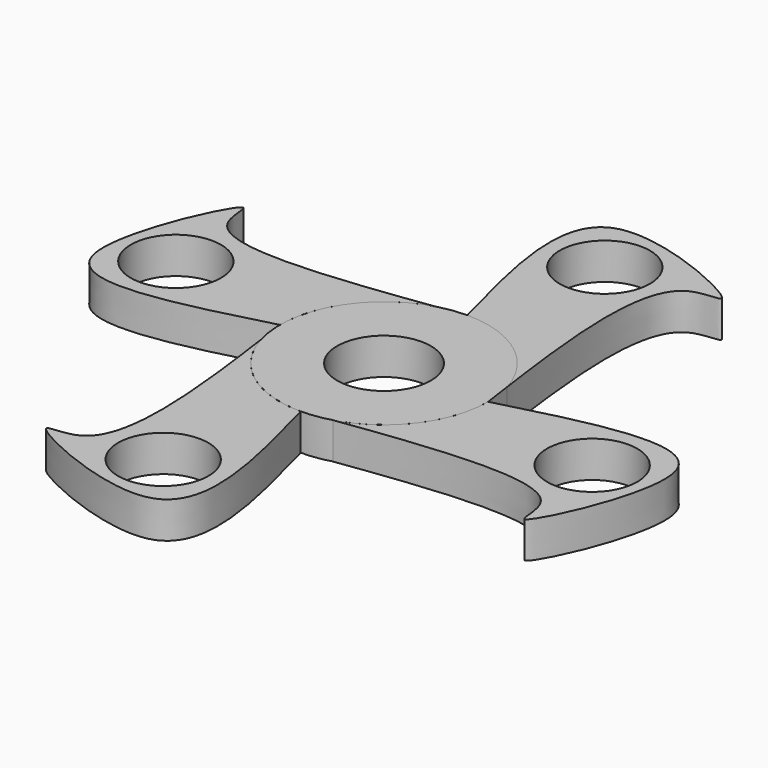
from build123d import *

# Parameters (mm, degrees)
F0_R     = 10.9982
F2_DEPTH = 8.89
F4_COUNT = 4
F0_R_2   = 11.43
F5_DEPTH = 8.89


with BuildPart() as f2:
    # F0 (on Top) → F2 (new body)
    with BuildSketch(Plane.XY):
        with BuildLine():
            add(Edge.make_bspline(
                [(0, 25.4), (-5.677610257, 46.5827207749), (-16.3150170913, 86.2700555059), (43.5220459935, 58.3296879428), (17.4856890236, 63.2313931859), (20.993250753, 31.4466711913), (24.4029460625, 7.0467172125)],
                knots=[0, 0, 0, 0, 0.2925395716, 0.5480937044, 0.6672372349, 0.9708883628, 0.9708883628, 0.9708883628, 0.9708883628], degree=3))
            ThreePointArc((0, 25.4), (15.2671769297, 20.2995888776), (24.4029460625, 7.0467172125))
        make_face()
        with Locations((8.0732954666, 57.2360679507)):
            Circle(F0_R, mode=Mode.SUBTRACT)
    extrude(amount=F2_DEPTH)


with BuildPart() as f4_1:
    # F4: instance of F2
    add(f2.part.rotate(Axis((0, 0, 19.4915588945), (0, 0, 1)), 1 * 360 / F4_COUNT))


with BuildPart() as f4_2:
    # F4: instance of F2
    add(f2.part.rotate(Axis((0, 0, 19.4915588945), (0, 0, 1)), 2 * 360 / F4_COUNT))


with BuildPart() as f4_3:
    # F4: instance of F2
    add(f2.part.rotate(Axis((0, 0, 19.4915588945), (0, 0, 1)), 3 * 360 / F4_COUNT))


with BuildPart() as f5:
    # F0 (on Top) → F5 (new body)
    with BuildSketch(Plane.XY):
        with BuildLine():
            ThreePointArc((24.4029460625, 7.0467172125), (15.2671769297, 20.2995888776), (0, 25.4))
            ThreePointArc((0, 25.4), (-17.9605122421, -17.9605122421), (25.4, 0))
            add(Edge.make_bspline(
                [(24.4029460625, 7.0467172125), (24.7298403297, 4.7074451212), (25.0649201649, 2.3537225606), (25.4, 0)],
                knots=[0.9708883628, 0.9708883628, 0.9708883628, 0.9708883628, 1, 1, 1, 1], degree=3))
        make_face()
        Circle(F0_R_2, mode=Mode.SUBTRACT)
    extrude(amount=F5_DEPTH)


solid = Compound([f2.part, f4_1.part, f4_2.part, f4_3.part, f5.part])
